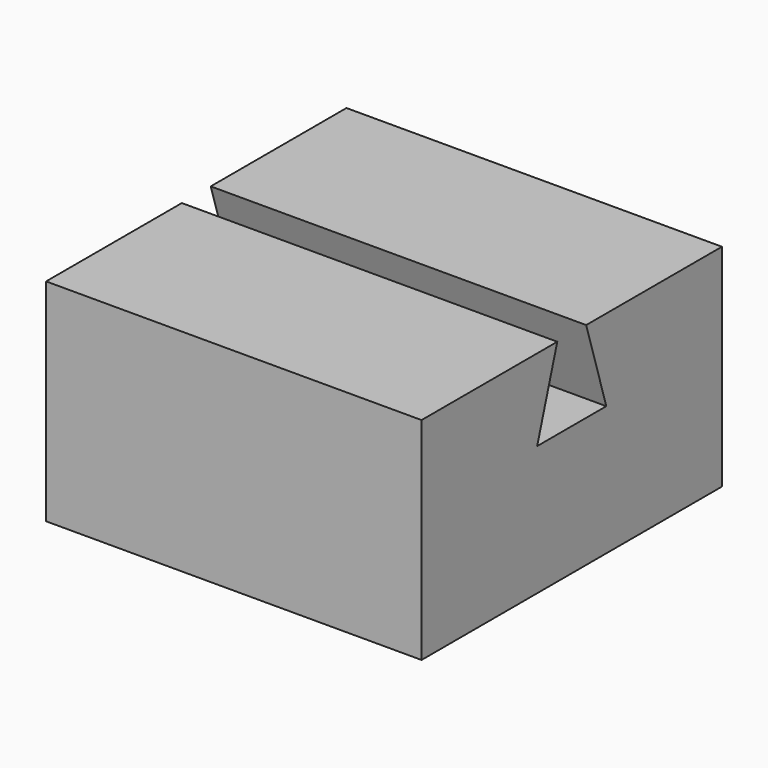
from build123d import *

# Parameters (mm, degrees)
F0_W          = 101.6
F0_H          = 101.6
F1_DEPTH      = 25.4
F1_DEPTH_BACK = 31.75
F3_DEPTH      = 50.801
F3_DEPTH_BACK = 50.801


with BuildPart() as f1:
    # F0 (on Top) → F1 (new body, two sides)
    with BuildSketch(Plane.XY) as f1_sk:
        Rectangle(F0_W, F0_H)
    extrude(amount=F1_DEPTH)
    extrude(f1_sk.sketch, amount=-F1_DEPTH_BACK)

    # F2 (on Right) → F3 (cut, two sides)
    with BuildSketch(Plane.YZ) as f3_sk:
        Polygon((-4.888071, 25.4), (-11.696149, 3.302), (11.696149, 3.302), (4.888071, 25.4), align=None)
    extrude(amount=F3_DEPTH, mode=Mode.SUBTRACT)
    extrude(f3_sk.sketch, amount=-F3_DEPTH_BACK, mode=Mode.SUBTRACT)


solid = f1.part
